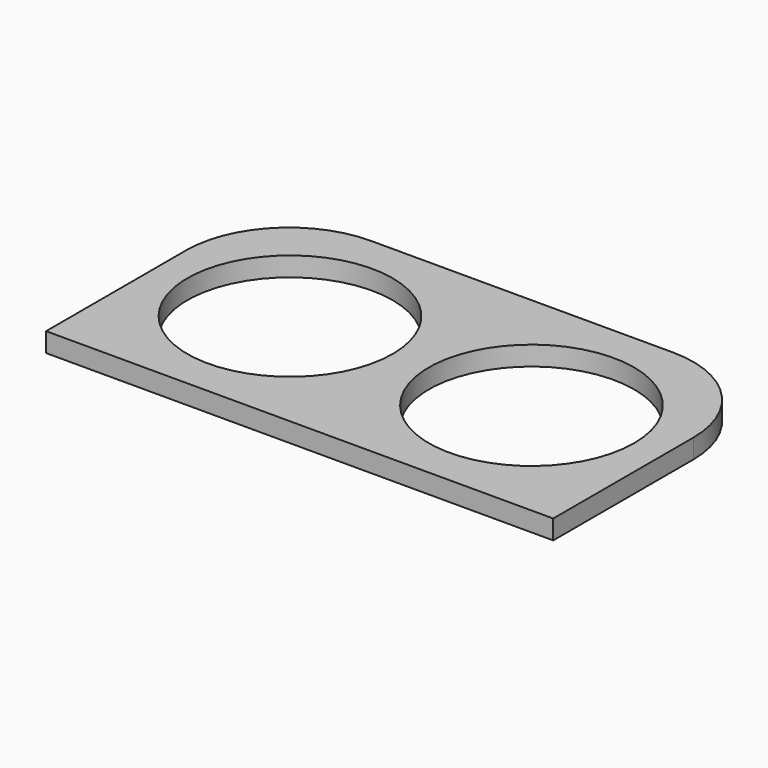
from build123d import *

# Parameters (mm, degrees)
F0_R     = 26.9875
F1_DEPTH = 5.08
F2_ANGLE = 90


with BuildPart() as f1:
    # F0 (on Front) → F1 (new body)
    with BuildSketch(Plane.XZ):
        with BuildLine():
            Line((66.675, 36.5125), (-66.675, 36.5125))
            Line((-66.675, 36.5125), (-66.675, -9.55675))
            ThreePointArc((-66.675, -9.55675), (-58.779844, -28.617344), (-39.71925, -36.5125))
            Line((-39.71925, -36.5125), (39.6875, -36.5125))
            ThreePointArc((39.6875, -36.5125), (58.770544, -28.608044), (66.675, -9.525))
            Line((66.675, -9.525), (66.675, 36.5125))
        make_face()
        with Locations((-31.75, 0)):
            Circle(F0_R, mode=Mode.SUBTRACT)
        with Locations((31.75, 0)):
            Circle(F0_R, mode=Mode.SUBTRACT)
    extrude(amount=F1_DEPTH)


with BuildPart() as f1_1:
    # F2: moved
    add(f1.part.rotate(Axis((0, 0, 36.5125), (1, 0, 0)), F2_ANGLE))


with BuildPart() as f1_2:
    # F3: moved
    add(f1_1.part.moved(Location((0, -35.814, -31.496))))


solid = f1_2.part
